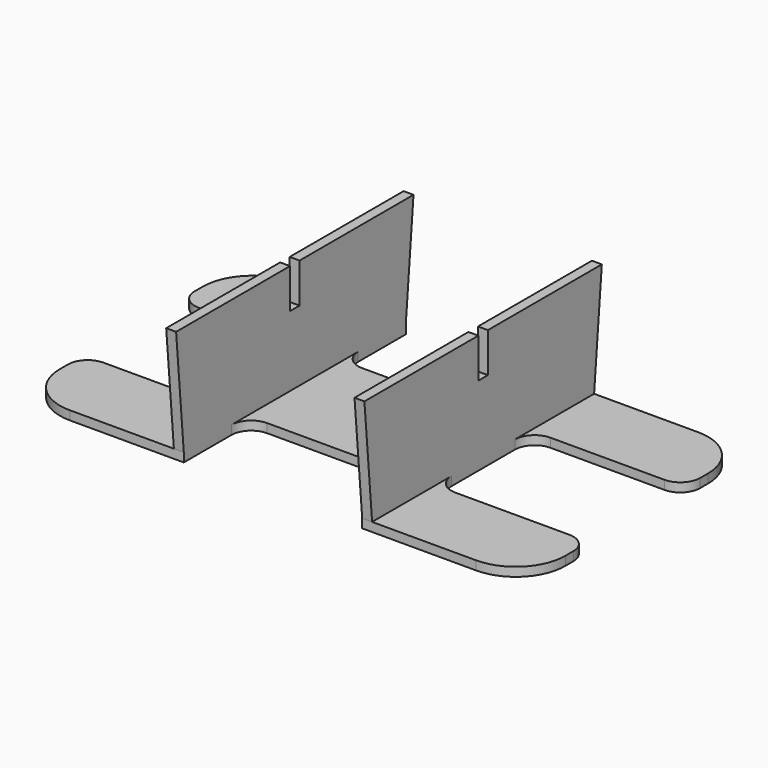
from build123d import *

# Parameters (mm, degrees)
F0_W     = 1
F0_H     = 8
F0_H_2   = 12
F0_W_2   = 18
F1_DEPTH = 0.9
F2_DEPTH = 12
F3_R     = 2
F5_DEPTH = 1
F7_DEPTH = 1
F8_W     = 1.2
F8_H     = 4
F9_DEPTH = 25


with BuildPart() as f1:
    # F0 (on Top) → F1 (new body)
    with BuildSketch(Plane.XY):
        with BuildLine():
            Line((-10, 14), (-20.5, 14))
            ThreePointArc((-20.5, 14), (-24.0355339059, 12.5355339059), (-25.5, 9))
            Line((-25.5, 9), (-25.5, 6))
            Line((-25.5, 6), (-10, 6))
            Line((-10, 6), (-10, 14))
        make_face()
        with Locations((-9.5, 10)):
            Rectangle(F0_W, F0_H)
        with Locations((-9.5, 0)):
            Rectangle(F0_W, F0_H_2)
        with Locations((-9.5, -10)):
            Rectangle(F0_W, F0_H)
        with BuildLine():
            Line((-10, -14), (-10, -6))
            Line((-10, -6), (-25.5, -6))
            Line((-25.5, -6), (-25.5, -9))
            ThreePointArc((-25.5, -9), (-24.0355339059, -12.5355339059), (-20.5, -14))
            Line((-20.5, -14), (-10, -14))
        make_face()
        with BuildLine():
            Line((25.5, -6), (10, -6))
            Line((10, -6), (10, -14))
            Line((10, -14), (20.5, -14))
            ThreePointArc((20.5, -14), (24.0355339059, -12.5355339059), (25.5, -9))
            Line((25.5, -9), (25.5, -6))
        make_face()
        with BuildLine():
            Line((20.5, 14), (10, 14))
            Line((10, 14), (10, 6))
            Line((10, 6), (25.5, 6))
            Line((25.5, 6), (25.5, 9))
            ThreePointArc((25.5, 9), (24.0355339059, 12.5355339059), (20.5, 14))
        make_face()
        with Locations((9.5, 10)):
            Rectangle(F0_W, F0_H)
        with Locations((9.5, 0)):
            Rectangle(F0_W, F0_H_2)
        with Locations((9.5, -10)):
            Rectangle(F0_W, F0_H)
        Rectangle(F0_W_2, F0_H_2)
    extrude(amount=F1_DEPTH)

    # F0 (on Top) → F2 (join)
    with BuildSketch(Plane.XY):
        with Locations((-9.5, -10)):
            Rectangle(F0_W, F0_H)
        with Locations((-9.5, 0)):
            Rectangle(F0_W, F0_H_2)
        with Locations((-9.5, 10)):
            Rectangle(F0_W, F0_H)
        with Locations((9.5, 10)):
            Rectangle(F0_W, F0_H)
        with Locations((9.5, 0)):
            Rectangle(F0_W, F0_H_2)
        with Locations((9.5, -10)):
            Rectangle(F0_W, F0_H)
    extrude(amount=F2_DEPTH)

    # F3
    f3_edges = [f1.edges().sort_by_distance(p)[0] for p in [
        (-25.5, 6, 0.45),
        (-10, 6, 0.45),
        (-10, -6, 0.45),
        (-25.5, -6, 0.45),
        (-9, 6, 0.45),
        (9, 6, 0.45),
        (25.5, 6, 0.45),
        (25.5, -6, 0.45),
        (10, 6, 0.45),
        (10, -6, 0.45),
        (9, -6, 0.45),
        (-9, -6, 0.45),
    ]]
    fillet(f3_edges, radius=F3_R)

    # F4 (on face) → F5 (join)
    with BuildSketch(Plane.YZ.offset(10)):
        Polygon((-14.9711241651, 12), (-14, 0.9), (-14, 12), align=None)
        Polygon((14.9711241651, 12), (14, 12), (14, 0.9), align=None)
    extrude(amount=-F5_DEPTH)

    # F6 (on face) → F7 (join)
    with BuildSketch(Plane(origin=(-10, 0, 0), x_dir=(0, -1, 0), z_dir=(-1, 0, 0))):
        Polygon((-14, 0.9), (-14, 12), (-14.9711241651, 12), align=None)
        Polygon((14.9711241651, 12), (14, 12), (14, 0.9), align=None)
    extrude(amount=-F7_DEPTH)

    # F8 (on face) → F9 (cut)
    with BuildSketch(Plane.YZ.offset(10)):
        with Locations((0, 10)):
            Rectangle(F8_W, F8_H)
    extrude(amount=-F9_DEPTH, mode=Mode.SUBTRACT)


solid = f1.part
